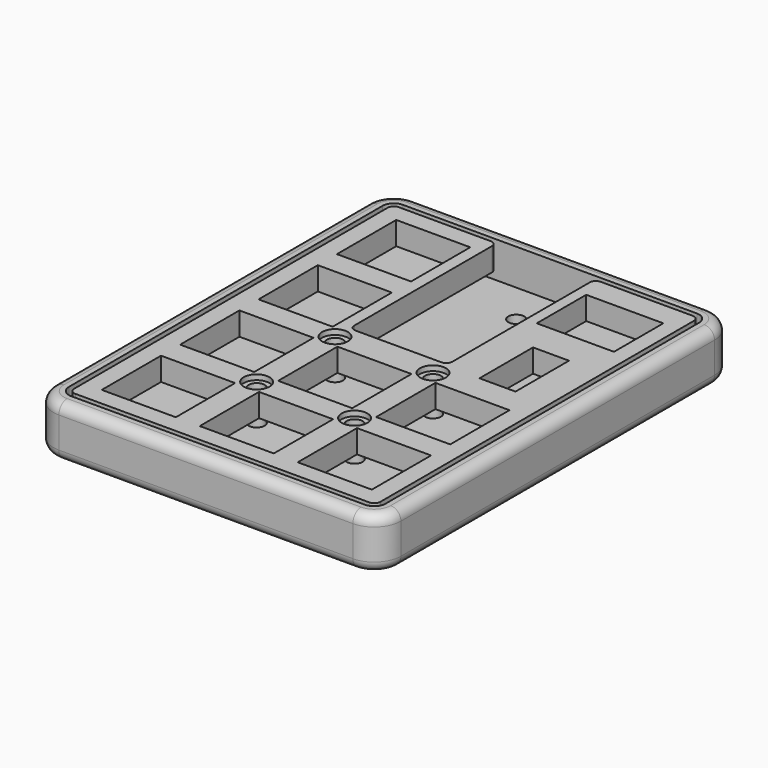
from build123d import *

# Parameters (mm, degrees)
SKETCH_R        = 1.55
SKETCH_W        = 14.4
SKETCH_H        = 14.4
SKETCH_W_2      = 7
SKETCH_H_2      = 13
SKETCH_W_3      = 15
SKETCH_H_3      = 12
PAD_DEPTH       = 4.5
SKETCH001_W     = 9.525
SKETCH001_H     = 2.38125
POCKET_DEPTH    = 3
SKETCH002_R     = 2.5
POCKET001_DEPTH = 1
FILLET_R        = 1.190625
SKETCH003_W     = 67.53125
SKETCH003_H     = 86.58125
PAD001_DEPTH    = 10
SKETCH004_W     = 61.53125
SKETCH004_H     = 80.58125
POCKET002_DEPTH = 7
SKETCH005_R     = 1.55
POCKET003_DEPTH = 3
FILLET001_R     = 2.190625
FILLET002_R     = 5.190625
FILLET003_R     = 2
SKETCH006_R     = 3
POCKET004_DEPTH = 1


with BuildPart() as plate:
    # Sketch → Pad (new body)
    with BuildSketch(Plane.XY):
        Polygon((0, 0), (59.53125, 0), (59.53125, 78.58125), (39.290625, 78.58125), (39.290625, 42.80625), (20.240625, 42.80625), (20.240625, 78.58125), (0, 78.58125), align=None)
        with Locations((20.240625, 20.240625)):
            Circle(SKETCH_R, mode=Mode.SUBTRACT)
        with Locations((39.290625, 20.240625)):
            Circle(SKETCH_R, mode=Mode.SUBTRACT)
        with Locations((20.240625, 39.290625)):
            Circle(SKETCH_R, mode=Mode.SUBTRACT)
        with Locations((39.290625, 39.290625)):
            Circle(SKETCH_R, mode=Mode.SUBTRACT)
        with Locations((10.715625, 10.715625)):
            Rectangle(SKETCH_W, SKETCH_H, mode=Mode.SUBTRACT)
        with Locations((29.765625, 10.715625)):
            Rectangle(SKETCH_W, SKETCH_H, mode=Mode.SUBTRACT)
        with Locations((48.815625, 10.715625)):
            Rectangle(SKETCH_W, SKETCH_H, mode=Mode.SUBTRACT)
        with Locations((10.715625, 29.765625)):
            Rectangle(SKETCH_W, SKETCH_H, mode=Mode.SUBTRACT)
        with Locations((29.765625, 29.765625)):
            Rectangle(SKETCH_W, SKETCH_H, mode=Mode.SUBTRACT)
        with Locations((48.815625, 29.765625)):
            Rectangle(SKETCH_W, SKETCH_H, mode=Mode.SUBTRACT)
        with Locations((10.715625, 48.815625)):
            Rectangle(SKETCH_W, SKETCH_H, mode=Mode.SUBTRACT)
        with Locations((10.715625, 67.865625)):
            Rectangle(SKETCH_W, SKETCH_H, mode=Mode.SUBTRACT)
        with Locations((49.410938, 48.815625)):
            Rectangle(SKETCH_W_2, SKETCH_H_2, mode=Mode.SUBTRACT)
        with Locations((48.910938, 67.865625)):
            Rectangle(SKETCH_W_3, SKETCH_H_3, mode=Mode.SUBTRACT)
    extrude(amount=PAD_DEPTH)

    # Sketch001 (on Face53 of Pad) → Pocket (cut)
    with BuildSketch(Plane(origin=(0, 0, 0), x_dir=(1, 0, 0), z_dir=(0, 0, -1))):
        with Locations((10.715625, -1.190625)):
            Rectangle(SKETCH001_W, SKETCH001_H)
        with Locations((10.715625, -20.240625)):
            Rectangle(SKETCH001_W, SKETCH001_H)
        with Locations((10.715625, -39.290625)):
            Rectangle(SKETCH001_W, SKETCH001_H)
        with Locations((10.715625, -58.340625)):
            Rectangle(SKETCH001_W, SKETCH001_H)
        with Locations((29.765625, -1.190625)):
            Rectangle(SKETCH001_W, SKETCH001_H)
        with Locations((29.765625, -20.240625)):
            Rectangle(SKETCH001_W, SKETCH001_H)
        with Locations((29.765625, -39.290625)):
            Rectangle(SKETCH001_W, SKETCH001_H)
        with Locations((48.815625, -1.190625)):
            Rectangle(SKETCH001_W, SKETCH001_H)
        with Locations((48.815625, -20.240625)):
            Rectangle(SKETCH001_W, SKETCH001_H)
        with Locations((48.815625, -58.340625)):
            Rectangle(SKETCH001_W, SKETCH001_H)
    extrude(amount=-POCKET_DEPTH, mode=Mode.SUBTRACT)

    # Sketch002 (on Face5 of Pocket) → Pocket001 (cut)
    with BuildSketch(Plane.XY.offset(4.5)):
        with Locations((20.240625, 20.240625)):
            Circle(SKETCH002_R)
        with Locations((39.290625, 20.240625)):
            Circle(SKETCH002_R)
        with Locations((39.290625, 39.290625)):
            Circle(SKETCH002_R)
        with Locations((20.240625, 39.290625)):
            Circle(SKETCH002_R)
    extrude(amount=-POCKET001_DEPTH, mode=Mode.SUBTRACT)

    # Fillet
    fillet_edges = [plate.edges().sort_by_distance(p)[0] for p in [
        (0, 0, 2.25),
        (59.53125, 0, 2.25),
        (0, 78.58125, 2.25),
        (39.290625, 78.58125, 2.25),
        (20.240625, 78.58125, 2.25),
        (59.53125, 78.58125, 2.25),
        (20.240625, 42.80625, 2.25),
        (39.290625, 42.80625, 2.25),
    ]]
    fillet(fillet_edges, radius=FILLET_R)


with BuildPart() as plate_1:
    # Body placement: moved
    add(plate.part.moved(Location((4, 4, 5.5))))


with BuildPart() as body001:
    # Sketch003 → Pad001 (new body)
    with BuildSketch(Plane.XY):
        with Locations((33.765625, 43.290625)):
            Rectangle(SKETCH003_W, SKETCH003_H)
    extrude(amount=PAD001_DEPTH)

    # Sketch004 (on Face6 of Pad001) → Pocket002 (cut)
    with BuildSketch(Plane.XY.offset(10)):
        with Locations((33.765625, 43.290625)):
            Rectangle(SKETCH004_W, SKETCH004_H)
    extrude(amount=-POCKET002_DEPTH, mode=Mode.SUBTRACT)

    # Sketch005 (on Face4 of Pocket002) → Pocket003 (cut)
    with BuildSketch(Plane(origin=(0, 0, 0), x_dir=(1, 0, 0), z_dir=(0, 0, -1))):
        with Locations((43.290625, -43.290625)):
            Circle(SKETCH005_R)
        with Locations((24.240625, -43.290625)):
            Circle(SKETCH005_R)
        with Locations((24.240625, -24.240625)):
            Circle(SKETCH005_R)
        with Locations((43.290625, -24.240625)):
            Circle(SKETCH005_R)
        with Locations((33.765625, -75.4375)):
            Circle(SKETCH005_R)
    extrude(amount=-POCKET003_DEPTH, mode=Mode.SUBTRACT)

    # Fillet001
    fillet001_edges = [body001.edges().sort_by_distance(p)[0] for p in [
        (64.53125, 83.58125, 6.5),
        (3, 83.58125, 6.5),
        (3, 3, 6.5),
        (64.53125, 3, 6.5),
    ]]
    fillet(fillet001_edges, radius=FILLET001_R)

    # Fillet002
    fillet002_edges = [body001.edges().sort_by_distance(p)[0] for p in [
        (0, 0, 5),
        (0, 86.58125, 5),
        (67.53125, 0, 5),
        (67.53125, 86.58125, 5),
    ]]
    fillet(fillet002_edges, radius=FILLET002_R)

    # Fillet003
    fillet003_edges = [body001.edges().sort_by_distance(p)[0] for p in [
        (33.765625, 0, 10),
        (33.765625, 0, 0),
    ]]
    fillet(fillet003_edges, radius=FILLET003_R)

    # Sketch006 (on Face40 of Fillet003) → Pocket004 (cut)
    with BuildSketch(Plane(origin=(0, 0, 0), x_dir=(1, 0, 0), z_dir=(0, 0, -1))):
        with Locations((60.53125, -7)):
            Circle(SKETCH006_R)
        with Locations((7, -7)):
            Circle(SKETCH006_R)
        with Locations((7, -79.58125)):
            Circle(SKETCH006_R)
        with Locations((60.53125, -79.58125)):
            Circle(SKETCH006_R)
    extrude(amount=-POCKET004_DEPTH, mode=Mode.SUBTRACT)


solid = Compound([plate_1.part, body001.part])
